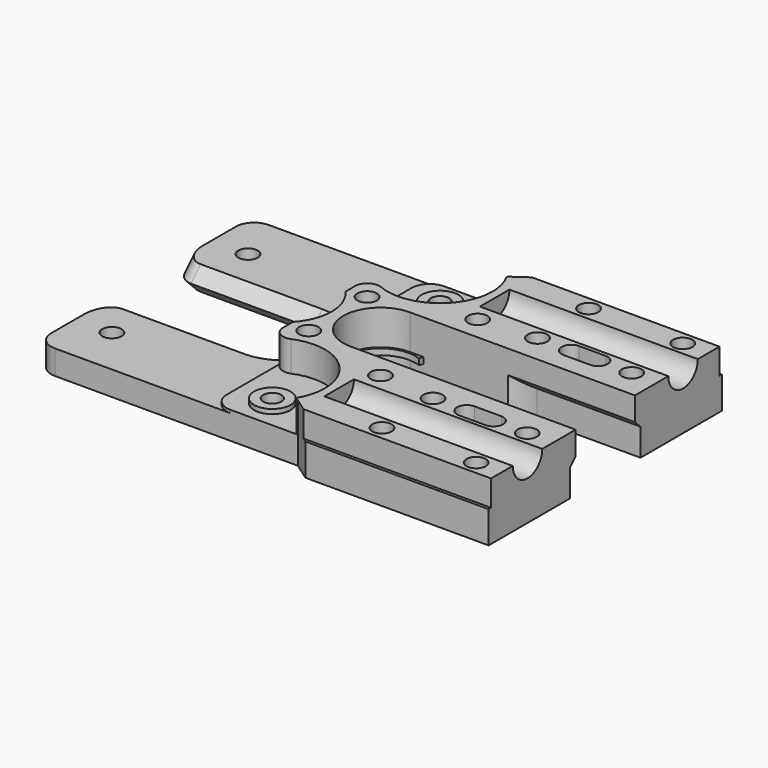
from build123d import *

# Parameters (mm, degrees)
PAD_DEPTH            = 46
PAD_DEPTH_BACK       = 30
SKETCH009_R          = 8.650139
POCKET006_DEPTH      = 4.25
SKETCH011_R          = 1.5
POCKET008_DEPTH      = 9.501
POCKET008_DEPTH_BACK = 0.001
SKETCH010_R          = 8.650139
SKETCH010_R_2        = 3
POCKET007_DEPTH      = 5
SKETCH005_R          = 5.8
POCKET002_DEPTH      = 9.501
POCKET002_DEPTH_BACK = 0.001
SKETCH006_R          = 6.1
POCKET003_DEPTH      = 5.75
POCKET004_DEPTH      = 9.501
POCKET004_DEPTH_BACK = 0.001
SKETCH008_W          = 4
SKETCH008_H          = 12.2
POCKET005_DEPTH      = 5.75
POCKET009_DEPTH      = 9.501
POCKET009_DEPTH_BACK = 0.001
POCKET_DEPTH         = 2.751
SKETCH014_R          = 3.035
POCKET010_DEPTH      = 31.001
PAD001_DEPTH         = 9.5
SKETCH017_R          = 1.6
POCKET011_DEPTH      = 9.501
SKETCH018_W          = 100
SKETCH018_H          = 100
POCKET012_DEPTH      = 5.501
SKETCH020_R          = 8
SKETCH019_R          = 6
SKETCH021_R          = 8
POCKET013_DEPTH      = 5.501
SKETCH023_W          = 100
SKETCH023_H          = 16
SKETCH022_W          = 100
SKETCH022_H          = 12
SKETCH024_W          = 100
SKETCH024_H          = 16
SKETCH025_R          = 1.6
POCKET014_DEPTH      = 9.501
FILLET_R             = 3
FILLET001_R          = 2
FILLET002_R          = 0.43
FILLET003_R          = 3
POCKET015_DEPTH      = 4.5
CHAMFER_SIZE         = 1.14
SKETCH027_W          = 50
SKETCH027_H          = 0.5
POCKET016_DEPTH      = 4.25


with BuildPart() as part:
    # Sketch → Pad (new body, two sides)
    with BuildSketch(Plane.YZ) as pad_sk:
        Polygon((0, -9.5), (22, -9.5), (22, 0), (-22, 0), (-22, -9.5), align=None)
    extrude(amount=PAD_DEPTH)
    extrude(pad_sk.sketch, amount=-PAD_DEPTH_BACK)

    # Sketch009 → Pocket006 (cut, symmetric)
    with BuildSketch(Plane.XY):
        with Locations((5, -17.25)):
            Circle(SKETCH009_R)
        with Locations((5, 17.25)):
            Circle(SKETCH009_R)
    extrude(amount=POCKET006_DEPTH, both=True, mode=Mode.SUBTRACT)

    # Sketch011 → Pocket008 (cut, two sides)
    with BuildSketch(Plane.XY) as pocket008_sk:
        with Locations((5, 17.25)):
            Circle(SKETCH011_R)
        with Locations((5, -17.25)):
            Circle(SKETCH011_R)
    extrude(amount=-POCKET008_DEPTH, mode=Mode.SUBTRACT)
    extrude(pocket008_sk.sketch, amount=POCKET008_DEPTH_BACK, mode=Mode.SUBTRACT)

    # Sketch010 → Pocket007 (cut, symmetric)
    with BuildSketch(Plane.XY):
        with Locations((5, -17.25)):
            Circle(SKETCH010_R)
        with Locations((5, -17.25)):
            Circle(SKETCH010_R_2, mode=Mode.SUBTRACT)
        with Locations((5, 17.25)):
            Circle(SKETCH010_R)
        with Locations((5, 17.25)):
            Circle(SKETCH010_R_2, mode=Mode.SUBTRACT)
    extrude(amount=POCKET007_DEPTH, both=True, mode=Mode.SUBTRACT)

    # Sketch005 → Pocket002 (cut, two sides)
    with BuildSketch(Plane.XY) as pocket002_sk:
        with Locations((9, 0)):
            Circle(SKETCH005_R)
    extrude(amount=-POCKET002_DEPTH, mode=Mode.SUBTRACT)
    extrude(pocket002_sk.sketch, amount=POCKET002_DEPTH_BACK, mode=Mode.SUBTRACT)

    # Sketch006 → Pocket003 (cut)
    with BuildSketch(Plane.XY):
        with Locations((9, 0)):
            Circle(SKETCH006_R)
    extrude(amount=-POCKET003_DEPTH, mode=Mode.SUBTRACT)

    # Sketch007 → Pocket004 (cut, two sides)
    with BuildSketch(Plane.XY) as pocket004_sk:
        Polygon((9, 0), (11.086323, 5.732125), (11.220218, 6.1), (111.220218, 6.1), (111.220218, -6.1), (11.220218, -6.1), (11.086323, -5.732125), align=None)
    extrude(amount=-POCKET004_DEPTH, mode=Mode.SUBTRACT)
    extrude(pocket004_sk.sketch, amount=POCKET004_DEPTH_BACK, mode=Mode.SUBTRACT)

    # Sketch008 → Pocket005 (cut)
    with BuildSketch(Plane.XY):
        with Locations((11, 0)):
            Rectangle(SKETCH008_W, SKETCH008_H)
    extrude(amount=-POCKET005_DEPTH, mode=Mode.SUBTRACT)

    # Sketch012 → Pocket009 (cut, two sides)
    with BuildSketch(Plane.XY) as pocket009_sk:
        with BuildLine():
            ThreePointArc((31.8, 12.35), (30.2, 10.75), (31.8, 9.15))
            Line((31.8, 9.15), (36.2, 9.15))
            ThreePointArc((36.2, 9.15), (37.8, 10.75), (36.2, 12.35))
            Line((31.8, 12.35), (36.2, 12.35))
        make_face()
        with BuildLine():
            ThreePointArc((31.8, -9.15), (30.2, -10.75), (31.8, -12.35))
            Line((31.8, -12.35), (36.2, -12.35))
            ThreePointArc((36.2, -12.35), (37.8, -10.75), (36.2, -9.15))
            Line((31.8, -9.15), (36.2, -9.15))
        make_face()
    extrude(amount=-POCKET009_DEPTH, mode=Mode.SUBTRACT)
    extrude(pocket009_sk.sketch, amount=POCKET009_DEPTH_BACK, mode=Mode.SUBTRACT)

    # Sketch013 (on DatumPlane) → Pocket (cut, through all)
    with BuildSketch(Plane.XY.offset(-6.75)):
        with BuildLine():
            ThreePointArc((9, 6.1), (2.9, 0), (9, -6.1))
            Line((9, -6.1), (34, -6.1))
            Line((34, 6.1), (34, -6.1))
            Line((9, 6.1), (34, 6.1))
        make_face()
    extrude(amount=-POCKET_DEPTH, mode=Mode.SUBTRACT)

    # Sketch014 (on DatumPlane) → Pocket010 (cut, through all)
    with BuildSketch(Plane.YZ.offset(15)):
        with Locations((-16, 0)):
            Circle(SKETCH014_R)
        with Locations((16, 0)):
            Circle(SKETCH014_R)
    extrude(amount=POCKET010_DEPTH, mode=Mode.SUBTRACT)

    # Sketch016 → Pad001 (join)
    with BuildSketch(Plane.XY):
        Polygon((13, -22), (46, -22), (46, -24), (15.856296, -24), align=None)
        Polygon((13, 22), (46, 22), (46, 24), (15.856296, 24), align=None)
    extrude(amount=-PAD001_DEPTH)

    # Sketch017 → Pocket011 (cut, through all)
    with BuildSketch(Plane.XY):
        with Locations((26.25, -10.75)):
            Circle(SKETCH017_R)
        with Locations((26.25, -21.25)):
            Circle(SKETCH017_R)
        with Locations((41.75, -21.25)):
            Circle(SKETCH017_R)
        with Locations((41.75, -10.75)):
            Circle(SKETCH017_R)
        with Locations((26.25, 10.75)):
            Circle(SKETCH017_R)
        with Locations((41.75, 10.75)):
            Circle(SKETCH017_R)
        with Locations((26.25, 21.25)):
            Circle(SKETCH017_R)
        with Locations((41.75, 21.25)):
            Circle(SKETCH017_R)
        with Locations((17, -10)):
            Circle(SKETCH017_R)
        with Locations((17, 10)):
            Circle(SKETCH017_R)
        with Locations((2, -6)):
            Circle(SKETCH017_R)
        with Locations((2, 6)):
            Circle(SKETCH017_R)
    extrude(amount=-POCKET011_DEPTH, mode=Mode.SUBTRACT)

    # Sketch018 (on DatumPlane) → Pocket012 (cut, through all)
    with BuildSketch(Plane.XY.offset(-5.5)):
        with Locations((-51.1, 0)):
            Rectangle(SKETCH018_W, SKETCH018_H)
    extrude(amount=POCKET012_DEPTH, mode=Mode.SUBTRACT)

    # Sketch020 (on DatumPlane) → SubtractiveLoft section 0
    with BuildSketch(Plane.XY.offset(-5.5)):
        with Locations((-7, 0)):
            Circle(SKETCH020_R)
    # Sketch019 (on DatumPlane) → SubtractiveLoft section 1
    with BuildSketch(Plane.XY.offset(-7.5)):
        with Locations((-7, 0)):
            Circle(SKETCH019_R)
    # Sketch021 (on DatumPlane) → SubtractiveLoft section 2
    with BuildSketch(Plane.XY.offset(-9.5)):
        with Locations((-7, 0)):
            Circle(SKETCH021_R)
    loft(ruled=True, mode=Mode.SUBTRACT)

    # Sketch020 (on DatumPlane) → Pocket013 (cut, through all)
    with BuildSketch(Plane.XY.offset(-5.5)):
        with Locations((-7, 0)):
            Circle(SKETCH020_R)
    extrude(amount=POCKET013_DEPTH, mode=Mode.SUBTRACT)

    # Sketch023 (on DatumPlane) → SubtractiveLoft001 section 0
    with BuildSketch(Plane.XY.offset(-5.5)):
        with Locations((-57, 0)):
            Rectangle(SKETCH023_W, SKETCH023_H)
    # Sketch022 (on DatumPlane) → SubtractiveLoft001 section 1
    with BuildSketch(Plane.XY.offset(-7.5)):
        with Locations((-57, 0)):
            Rectangle(SKETCH022_W, SKETCH022_H)
    # Sketch024 (on DatumPlane) → SubtractiveLoft001 section 2
    with BuildSketch(Plane.XY.offset(-9.5)):
        with Locations((-57, 0)):
            Rectangle(SKETCH024_W, SKETCH024_H)
    loft(ruled=True, mode=Mode.SUBTRACT)

    # Sketch025 → Pocket014 (cut, through all)
    with BuildSketch(Plane.XY):
        with Locations((-24, -14)):
            Circle(SKETCH025_R)
        with Locations((-24, 14)):
            Circle(SKETCH025_R)
    extrude(amount=-POCKET014_DEPTH, mode=Mode.SUBTRACT)

    # Fillet
    fillet_edges = [part.edges().sort_by_distance(p)[0] for p in [
        (-30, -22, -7.5),
        (-30, 22, -7.5),
        (-30, 7, -8.5),
        (-30, 7, -6.5),
        (-30, -7, -6.5),
        (-30, -7, -8.5),
    ]]
    fillet(fillet_edges, radius=FILLET_R)

    # Fillet001
    fillet001_edges = [part.edges().sort_by_distance(p)[0] for p in [
        (-1.1, -11.1169, -2.125),
        (-1.1, 11.1169, -2.125),
    ]]
    fillet(fillet001_edges, radius=FILLET001_R)

    # Fillet002
    fillet002_edges = [part.edges().sort_by_distance(p)[0] for p in [
        (12.229275, -22, -2.125),
        (12.229275, 22, -2.125),
    ]]
    fillet(fillet002_edges, radius=FILLET002_R)

    # Fillet003
    fillet003_edges = [part.edges().sort_by_distance(p)[0] for p in [
        (-1.1, -22, -5.25),
        (-1.1, 22, -5.25),
    ]]
    fillet(fillet003_edges, radius=FILLET003_R)

    # Sketch026 (on DatumPlane) → Pocket015 (cut)
    with BuildSketch(Plane.XY.offset(-9.5)):
        with BuildLine():
            ThreePointArc((29, 7.25), (21.75, 0), (29, -7.25))
            Line((29, -7.25), (49, -7.25))
            Line((49, 7.25), (49, -7.25))
            Line((29, 7.25), (49, 7.25))
        make_face()
    extrude(amount=POCKET015_DEPTH, mode=Mode.SUBTRACT)

    # Chamfer
    chamfer_edges = [part.edges().sort_by_distance(p)[0] for p in [
        (35.540887, 6.1, -5),
        (35.540887, -6.1, -5),
    ]]
    chamfer(chamfer_edges, length=CHAMFER_SIZE)

    # Sketch027 → Pocket016 (cut, symmetric)
    with BuildSketch(Plane.XY):
        with Locations((21, -23.75)):
            Rectangle(SKETCH027_W, SKETCH027_H)
        with Locations((21, 23.75)):
            Rectangle(SKETCH027_W, SKETCH027_H)
    extrude(amount=POCKET016_DEPTH, both=True, mode=Mode.SUBTRACT)


solid = part.part
